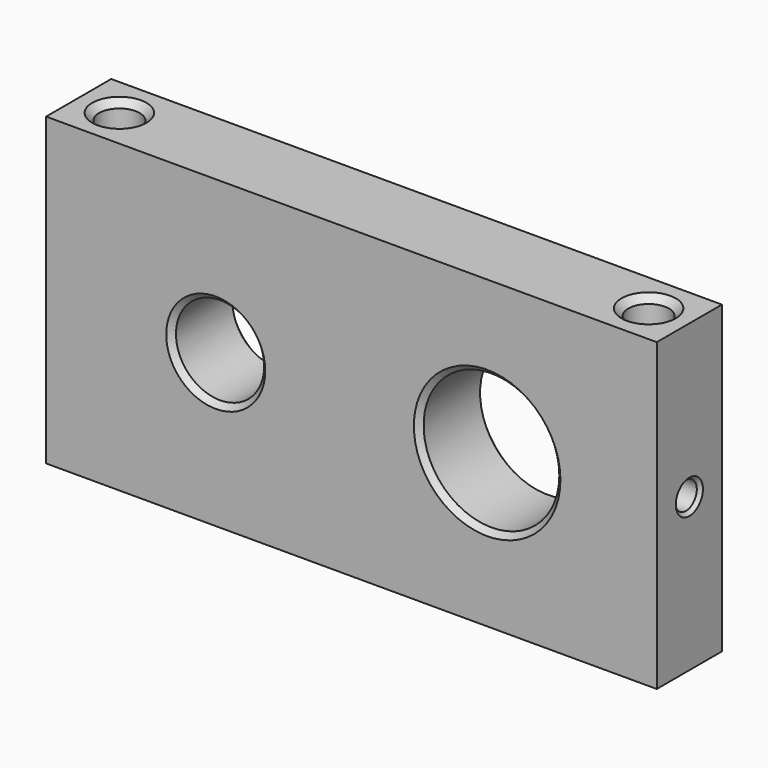
from build123d import *

# Parameters (mm, degrees)
F0_W           = 90
F0_H           = 45
F1_DEPTH       = 12
F2_R           = 6.5
F2_R_2         = 10
F3_DEPTH       = 25
F4_SIZE        = 0.8
F7_D           = 6
F7_CSINK_D     = 8
F7_CSINK_ANGLE = 90
F9_D           = 4
F9_DEPTH       = 30
F9_CSINK_D     = 5
F9_CSINK_ANGLE = 90
F9_TIP         = 1.2017212381


with BuildPart() as f1:
    # F0 (on Front) → F1 (new body)
    with BuildSketch(Plane.XZ):
        Rectangle(F0_W, F0_H)
    extrude(amount=-F1_DEPTH)

    # F2 (on Front) → F3 (cut)
    with BuildSketch(Plane.XZ):
        with Locations((-20, 0)):
            Circle(F2_R)
        with Locations((20, 0)):
            Circle(F2_R_2)
    extrude(amount=-F3_DEPTH, mode=Mode.SUBTRACT)

    # F4
    f4_edges = [f1.edges().sort_by_distance(p)[0] for p in [
        (-26.5, 0, 0),
        (-26.5, 12, 0),
        (10, 0, 0),
        (10, 12, 0),
    ]]
    chamfer(f4_edges, length=F4_SIZE)

    # F7 (through all)
    with Locations(Plane.XY.offset(22.5)):
        with Locations((-39, 6), (39, 6)):
            CounterSinkHole(F7_D / 2, F7_CSINK_D / 2, counter_sink_angle=F7_CSINK_ANGLE)

    # F9
    with Locations(Plane.YZ.offset(45)):
        with Locations((6, 0)):
            CounterSinkHole(F9_D / 2, F9_CSINK_D / 2, depth=F9_DEPTH, counter_sink_angle=F9_CSINK_ANGLE)
            with Locations((0, 0, -(F9_DEPTH + F9_TIP / 2))):  # 118° drill point
                Cone(0, F9_D / 2, F9_TIP, mode=Mode.SUBTRACT)


solid = f1.part
